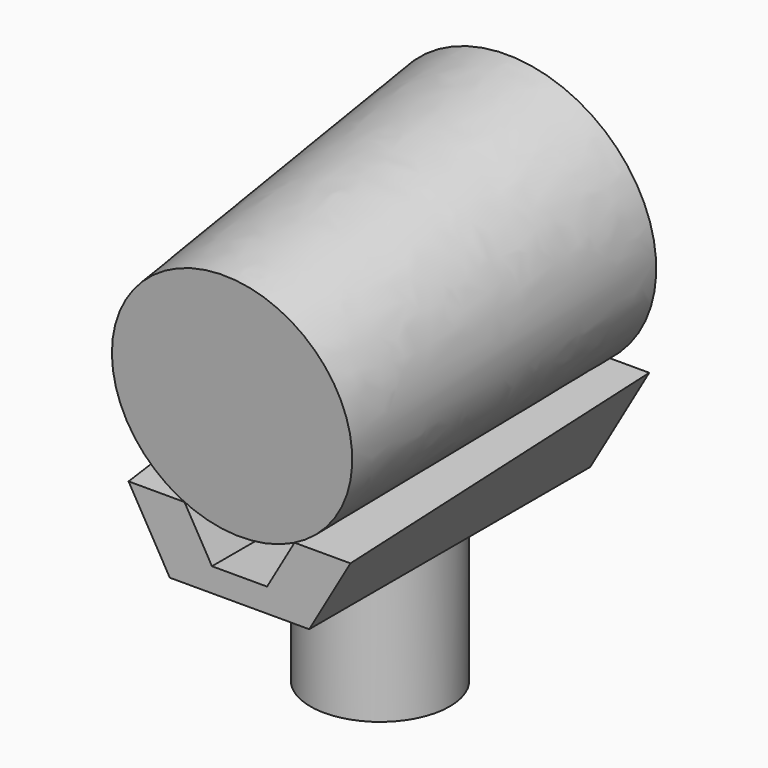
from build123d import *

# Parameters (mm, degrees)
F0_R     = 12.5
F2_DEPTH = 25
F3_DEPTH = 31.5
F5_DEPTH = 50
F9_R     = 25
F7_R     = 21.5


with BuildPart() as f2:
    # F0 (on Top) → F2 (new body)
    with BuildSketch(Plane.XY):
        Circle(F0_R)
    extrude(amount=-F2_DEPTH)

    # F1 (on Front) → F3 (join, symmetric)
    with BuildSketch(Plane.XZ):
        Polygon((-12.5, 0), (12.5, 0), (23.0756080491, 18.317490462), (13.0496482004, 18.317490462), (4.9415511342, 4.2738543907), (-4.9415511342, 4.2738543907), (-13.0496482004, 18.317490462), (-23.0756080491, 18.317490462), align=None)
    extrude(amount=F3_DEPTH, both=True)

    # F4 (on Right) → F5 (cut, symmetric)
    with BuildSketch(Plane.YZ):
        Polygon((-31.5, 41.0514958203), (-31.5, 18.317490462), (-31.5, 12.8057046598), (31.5, 18.317490462), (31.5, 41.0514958203), align=None)
    extrude(amount=F5_DEPTH, both=True, mode=Mode.SUBTRACT)


with BuildPart() as f10:
    # F9 (on offset) → F10 section 0
    with BuildSketch(Plane(origin=(0, 33.6075822069, 2.9402824516), x_dir=(1, 0, 0), z_dir=(0, -0.9961946981, -0.0871557427))):
        with Locations((0, 34.6043201034)):
            Circle(F9_R)
    # F7 (on line) → F10 section 1
    with BuildSketch(Plane(origin=(0, -30.148878471, -2.6376850842), x_dir=(1, 0, 0), z_dir=(0, -0.9961946981, -0.0871557427))):
        with Locations((0, 34.6043201034)):
            Circle(F7_R)
    loft()


solid = Compound([f2.part, f10.part])
